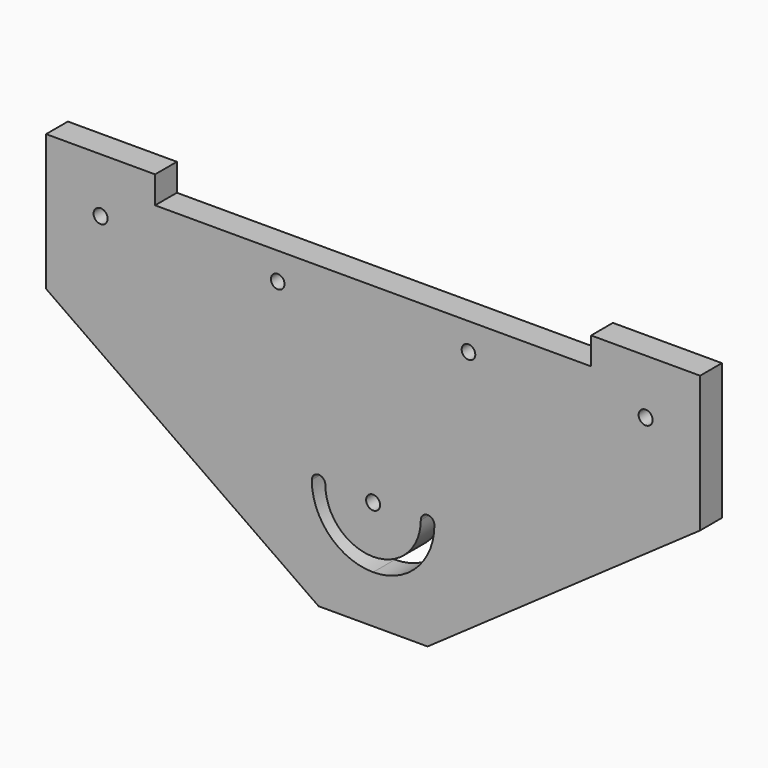
from build123d import *

# Parameters (mm, degrees)
F1_DEPTH = 12.7
F2_D     = 6.35
F3_D     = 6.5278
F4_D     = 6.5278
F5_D     = 6.5278


with BuildPart() as f1:
    # F0 (on Front) → F1 (new body)
    with BuildSketch(Plane.XZ):
        with BuildLine():
            Line((0, 51.6978976429), (0, 70.7478976429))
            Line((0, 70.7478976429), (-101.6, 70.7478976429))
            Line((-101.6, 70.7478976429), (-101.6, 83.4478976429))
            Line((-101.6, 83.4478976429), (-152.4, 83.4478976429))
            Line((-152.4, 83.4478976429), (-152.4, 19.9478976429))
            Line((-152.4, 19.9478976429), (-25.4, -68.9521023571))
            Line((-25.4, -68.9521023571), (0, -68.9521023571))
            Line((0, -68.9521023571), (0, -46.7271023571))
            ThreePointArc((0, -46.7271023571), (-20.2055762724, -38.3576786296), (-28.575, -18.1521023571))
            ThreePointArc((-28.575, -18.1521023571), (-25.4, -14.9771023571), (-22.225, -18.1521023571))
            ThreePointArc((-22.225, -18.1521023571), (-15.7154482119, -33.867550569), (0, -40.3771023571))
            Line((0, -40.3771023571), (0, -18.1521023571))
            Line((0, -18.1521023571), (0, 51.6978976429))
        make_face()
        with BuildLine():
            Line((101.6, 70.7478976429), (0, 70.7478976429))
            Line((0, 70.7478976429), (0, 51.6978976429))
            Line((0, 51.6978976429), (0, -18.1521023571))
            Line((0, -18.1521023571), (0, -40.3771023571))
            ThreePointArc((0, -40.3771023571), (15.7154482119, -33.867550569), (22.225, -18.1521023571))
            ThreePointArc((22.225, -18.1521023571), (25.4, -14.9771023571), (28.575, -18.1521023571))
            ThreePointArc((28.575, -18.1521023571), (20.2055762724, -38.3576786296), (0, -46.7271023571))
            Line((0, -46.7271023571), (0, -68.9521023571))
            Line((0, -68.9521023571), (25.4, -68.9521023571))
            Line((25.4, -68.9521023571), (152.4, 19.9478976429))
            Line((152.4, 19.9478976429), (152.4, 83.4478976429))
            Line((152.4, 83.4478976429), (101.6, 83.4478976429))
            Line((101.6, 83.4478976429), (101.6, 70.7478976429))
        make_face()
    extrude(amount=F1_DEPTH)

    # F2 (through all)
    with Locations(Plane(origin=(0, 0, 0), x_dir=(1, 0, 0), z_dir=(0, 1, 0))):
        with Locations((44.45, -58.0478976429), (-44.45, -58.0478976429)):
            Hole(F2_D / 2)

    # F3 (through all)
    with Locations(Plane(origin=(0, 0, 0), x_dir=(1, 0, 0), z_dir=(0, 1, 0))):
        with Locations((-127, -58.0478976429)):
            Hole(F3_D / 2)

    # F4 (through all)
    with Locations(Plane(origin=(0, 0, 0), x_dir=(1, 0, 0), z_dir=(0, 1, 0))):
        with Locations((0, 18.1521023571)):
            Hole(F4_D / 2)

    # F5 (through all)
    with Locations(Plane(origin=(0, 0, 0), x_dir=(1, 0, 0), z_dir=(0, 1, 0))):
        with Locations((127, -58.0478976429)):
            Hole(F5_D / 2)


solid = f1.part
